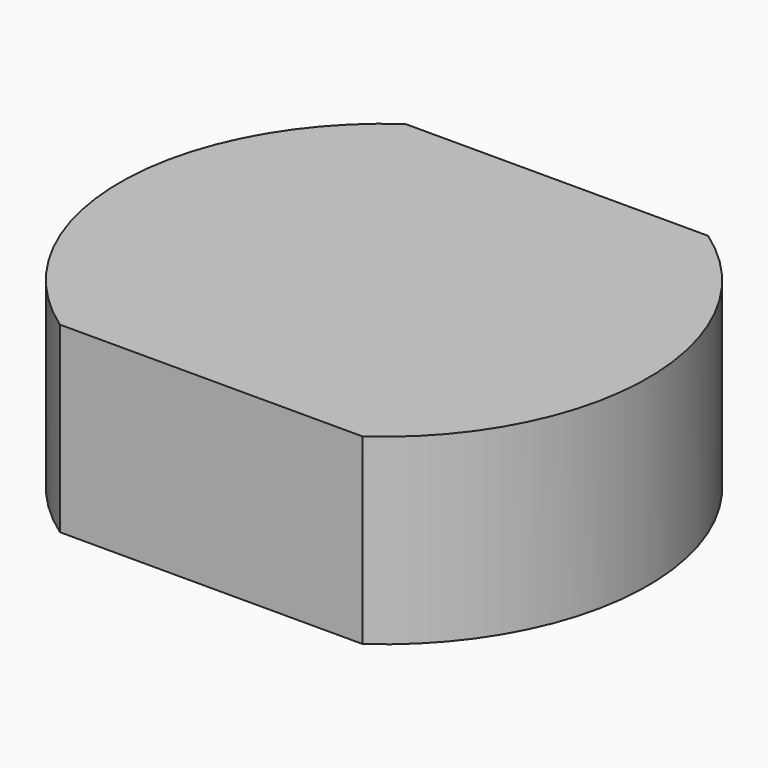
from build123d import *

# Parameters (mm, degrees)
PAD_1_DEPTH = 27


with BuildPart() as part:
    # Sketch_1 → Pad_1 (new body)
    with BuildSketch(Plane.XY):
        with BuildLine():
            ThreePointArc((22.449938, -25.337151), (39.053136, 6.733794), (22.261972, 38.706728))
            Line((22.261972, 38.706728), (-22.450773, 38.706728))
            ThreePointArc((-22.450773, 38.706728), (-39.053018, 6.635567), (-22.261972, -25.337151))
            Line((-22.261972, -25.337151), (22.449938, -25.337151))
        make_face()
    extrude(amount=PAD_1_DEPTH)


solid = part.part
